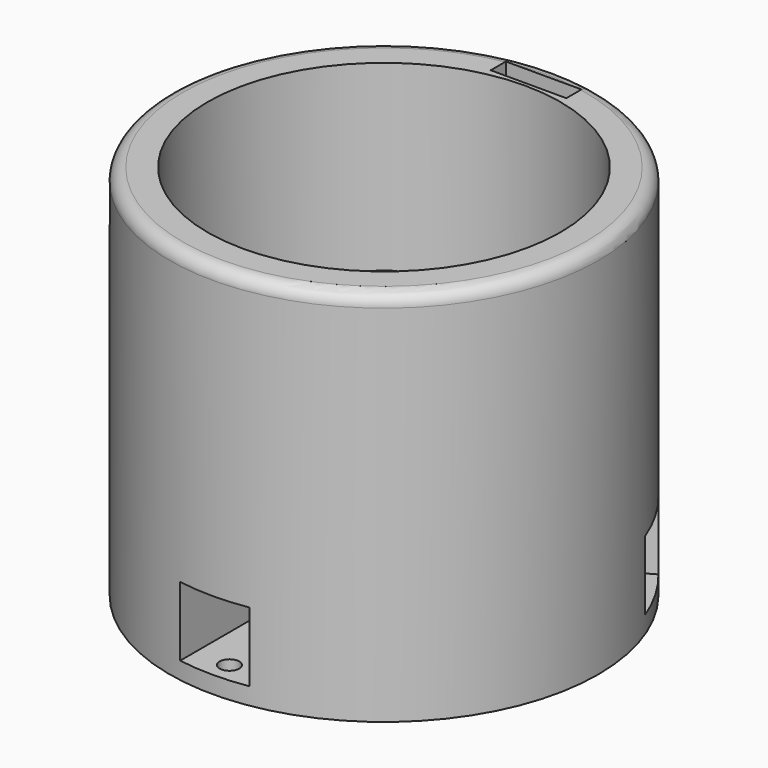
from build123d import *

# Parameters (mm, degrees)
SKETCH_R              = 17
PAD_DEPTH             = 30
SKETCH001_R           = 14
POCKET_DEPTH          = 20
SKETCH002_R           = 5
PAD001_DEPTH          = 2
SKETCH003_R           = 4
PAD002_DEPTH          = 9
FILLET_R              = 1
SKETCH004_W           = 47.033489
SKETCH004_H           = 47.446069
PAD003_DEPTH          = 10
SKETCH005_W           = 5.5
SKETCH005_H           = 5.5
POCKET001_DEPTH       = 15
POLARPATTERN_COUNT    = 3
SKETCH006_W           = 48.40057
SKETCH006_H           = 10.44081
POCKET002_DEPTH       = 47.447069
SKETCH007_W           = 6
SKETCH007_H           = 1.5
POCKET003_DEPTH       = 8
SKETCH008_R           = 0.776248
POCKET004_DEPTH       = 5
POLARPATTERN001_COUNT = 3
FILLET001_R           = 1


with BuildPart() as part:
    # Sketch → Pad (new body)
    with BuildSketch(Plane.XY):
        Circle(SKETCH_R)
    extrude(amount=PAD_DEPTH)

    # Sketch001 (on Face3 of Pad) → Pocket (cut)
    with BuildSketch(Plane.XY.offset(30)):
        Circle(SKETCH001_R)
    extrude(amount=-POCKET_DEPTH, mode=Mode.SUBTRACT)

    # Sketch002 (on Face5 of Pocket) → Pad001 (join)
    with BuildSketch(Plane.XY.offset(10)):
        Circle(SKETCH002_R)
    extrude(amount=PAD001_DEPTH)

    # Sketch003 (on Face7 of Pad001) → Pad002 (join)
    with BuildSketch(Plane.XY.offset(12)):
        Circle(SKETCH003_R)
    extrude(amount=PAD002_DEPTH)

    # Fillet
    fillet_edges = [part.edges().sort_by_distance(p)[0] for p in [
        (-4, 0, 21),
    ]]
    fillet(fillet_edges, radius=FILLET_R)

    # Sketch004 (on Face8 of Fillet) → Pad003 (join)
    with BuildSketch(Plane.XY.offset(30)):
        with Locations((0.145404, -0.183003)):
            Rectangle(SKETCH004_W, SKETCH004_H)
    extrude(amount=PAD003_DEPTH)

    # Sketch005 (on Face6 of Pad003) → Pocket001 (cut)
    with BuildSketch(Plane.XZ.offset(23.906038)):
        with Locations((0, 4.110798)):
            Rectangle(SKETCH005_W, SKETCH005_H)
    pocket001 = extrude(amount=-POCKET001_DEPTH, mode=Mode.SUBTRACT)

    # PolarPattern: Pocket001 ×3 about axis
    polarpattern_axis = Axis((0, 0, 0), (0, 0, 1))
    for i in range(1, POLARPATTERN_COUNT):
        add(pocket001.rotate(polarpattern_axis, i * 360 / POLARPATTERN_COUNT), mode=Mode.SUBTRACT)

    # Sketch006 (on Face6 of PolarPattern) → Pocket002 (cut, through all)
    with BuildSketch(Plane.XZ.offset(23.906038)):
        with Locations((0.264744, 35.122468)):
            Rectangle(SKETCH006_W, SKETCH006_H)
    extrude(amount=-POCKET002_DEPTH, mode=Mode.SUBTRACT)

    # Sketch007 (on Face2 of Pocket002) → Pocket003 (cut)
    with BuildSketch(Plane.XY.offset(29.902063)):
        with Locations((0.040436, 15.031708)):
            Rectangle(SKETCH007_W, SKETCH007_H)
    extrude(amount=-POCKET003_DEPTH, mode=Mode.SUBTRACT)

    # Sketch008 (on Face3 of Pocket003) → Pocket004 (cut)
    with BuildSketch(Plane(origin=(0, 0, 0), x_dir=(1, 0, 0), z_dir=(0, 0, -1))):
        with Locations((0, 15.325977)):
            Circle(SKETCH008_R)
    pocket004 = extrude(amount=-POCKET004_DEPTH, mode=Mode.SUBTRACT)

    # PolarPattern001: Pocket004 ×3 about axis
    polarpattern001_axis = Axis((0, 0, 0), (0, 0, -1))
    for i in range(1, POLARPATTERN001_COUNT):
        add(pocket004.rotate(polarpattern001_axis, i * 360 / POLARPATTERN001_COUNT), mode=Mode.SUBTRACT)

    # Fillet001
    fillet001_edges = [part.edges().sort_by_distance(p)[0] for p in [
        (-17, 0, 29.902063),
    ]]
    fillet(fillet001_edges, radius=FILLET001_R)


solid = part.part
